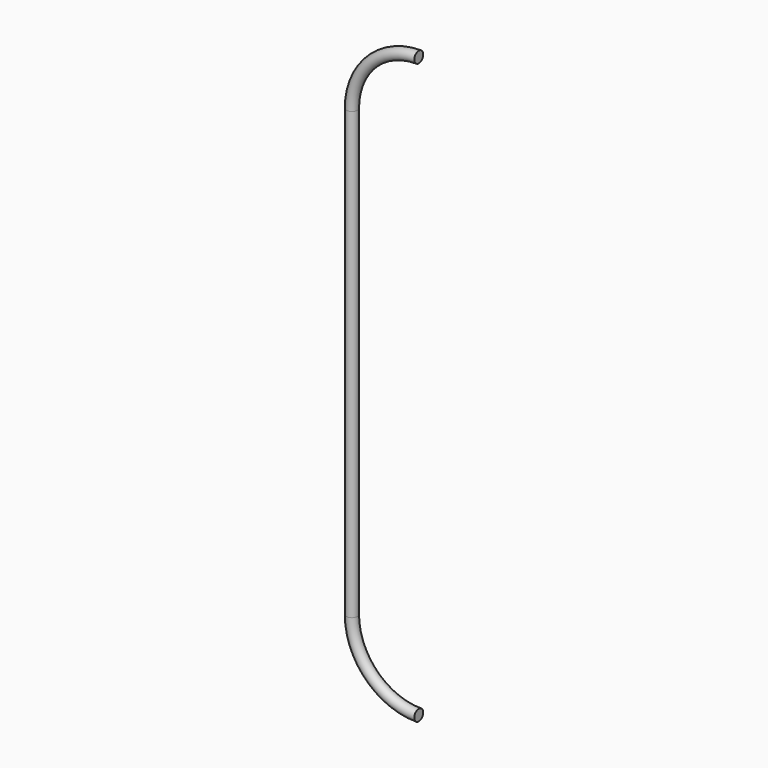
from build123d import *

# Parameters (mm, degrees)
F0_R       = 0.635
F1_DEPTH   = 50.8
F1_FACE_R  = 0.635
F1_FACE1_R = 0.635


with BuildPart() as f1:
    # F0 (on Top) → F1 (new body)
    with BuildSketch(Plane.XY):
        Circle(F0_R)
    extrude(amount=F1_DEPTH)

    # F3: sweep along a path in F2
    with BuildLine(Plane.XZ) as f3_path:
        ThreePointArc((7.62, 58.42), (2.2318463274, 56.1881536726), (0, 50.8))
    # F1_face (on face) → F3 (sweep)
    with BuildSketch(Plane.XY.offset(50.8)):
        Circle(F1_FACE_R)
    sweep(path=f3_path.line)

    # F5: sweep along a path in F4
    with BuildLine(Plane.XZ) as f5_path:
        ThreePointArc((0, 0), (2.2318463274, -5.3881536726), (7.62, -7.62))
    # F1_face1 (on face) → F5 (sweep)
    with BuildSketch(Plane(origin=(0, 0, 0), x_dir=(1, 0, 0), z_dir=(0, 0, -1))):
        Circle(F1_FACE1_R)
    sweep(path=f5_path.line)


solid = f1.part
